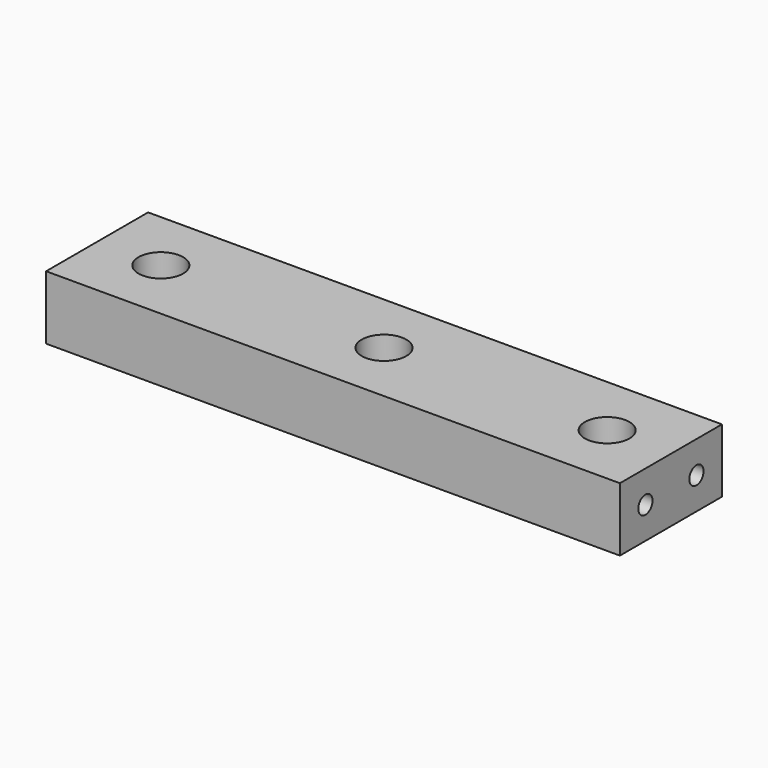
from build123d import *

# Parameters (mm, degrees)
F0_W     = 90
F0_H     = 20
F1_DEPTH = 10
F3_D     = 2.8
F3_DEPTH = 7
F3_TIP   = 0.8412048666
F5_D     = 2.8
F5_DEPTH = 7
F5_TIP   = 0.8412048666
F6_R     = 3.5
F7_DEPTH = 25


with BuildPart() as f1:
    # F0 (on Top) → F1 (new body)
    with BuildSketch(Plane.XY):
        Rectangle(F0_W, F0_H)
    extrude(amount=F1_DEPTH)

    # F3
    with Locations(Plane(origin=(-45, 0, 0), x_dir=(0, -1, 0), z_dir=(-1, 0, 0))):
        with Locations((-5, 5), (5, 5)):
            Hole(F3_D / 2, depth=F3_DEPTH)
            with Locations((0, 0, -(F3_DEPTH + F3_TIP / 2))):  # 118° drill point
                Cone(0, F3_D / 2, F3_TIP, mode=Mode.SUBTRACT)

    # F5
    with Locations(Plane.YZ.offset(45)):
        with Locations((-5, 5), (5, 5)):
            Hole(F5_D / 2, depth=F5_DEPTH)
            with Locations((0, 0, -(F5_DEPTH + F5_TIP / 2))):  # 118° drill point
                Cone(0, F5_D / 2, F5_TIP, mode=Mode.SUBTRACT)

    # F6 (on face) → F7 (cut)
    with BuildSketch(Plane.XY.offset(10)):
        with Locations((35, 0)):
            Circle(F6_R)
        Circle(F6_R)
        with Locations((-35, 0)):
            Circle(F6_R)
    extrude(amount=-F7_DEPTH, mode=Mode.SUBTRACT)


solid = f1.part
